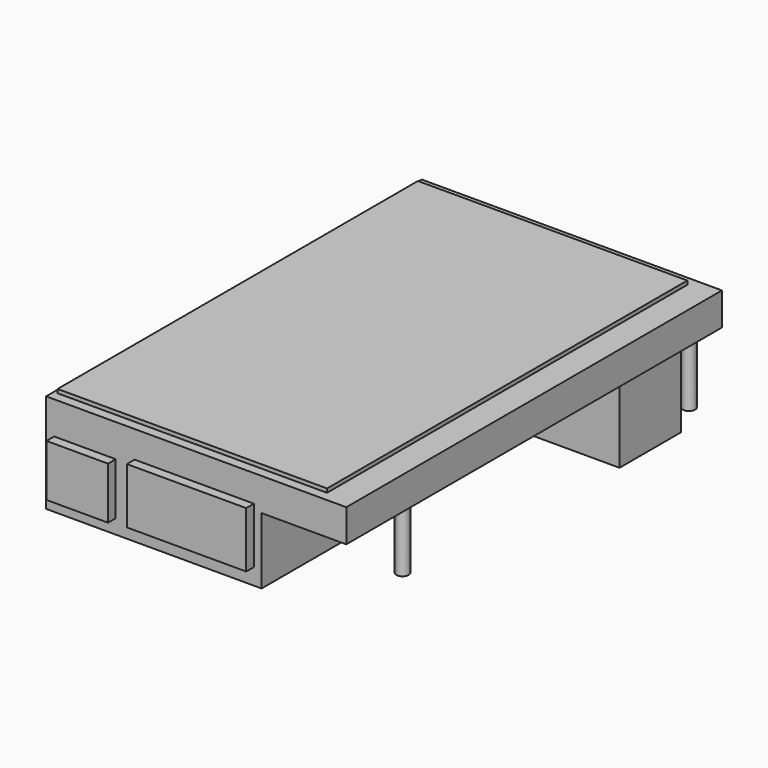
from build123d import *

# Parameters (mm, degrees)
F0_W      = 78
F0_H      = 122
F1_DEPTH  = 8.5
F2_W      = 70
F2_H      = 117
F3_DEPTH  = 1
F4_W      = 56
F4_H      = 85
F5_DEPTH  = 17.25
F6_W      = 18
F6_H      = 15
F7_DEPTH  = 8.75
F8_W      = 16
F8_H      = 13.5
F8_W_2    = 31
F8_H_2    = 14.5
F9_DEPTH  = 2.5
F10_R     = 0.8
F11_DEPTH = 5
F12_R     = 1.6
F13_DEPTH = 18
F14_W     = 76
F14_H     = 20
F15_DEPTH = 19.4


with BuildPart() as f1:
    # F0 (on Top) → F1 (new body)
    with BuildSketch(Plane.XY):
        Rectangle(F0_W, F0_H)
    extrude(amount=F1_DEPTH)

    # F2 (on face) → F3 (join)
    with BuildSketch(Plane.XY.offset(8.5)):
        with Locations((-3, 0)):
            Rectangle(F2_W, F2_H)
    extrude(amount=F3_DEPTH)

    # F4 (on face) → F5 (join)
    with BuildSketch(Plane(origin=(0, 0, 0), x_dir=(1, 0, 0), z_dir=(0, 0, -1))):
        with Locations((-11, 18.5)):
            Rectangle(F4_W, F4_H)
    extrude(amount=F5_DEPTH)

    # F6 (on face) → F7 (join)
    with BuildSketch(Plane(origin=(-39, 0, 0), x_dir=(0, -1, 0), z_dir=(-1, 0, 0))):
        with Locations((8, -9.75)):
            Rectangle(F6_W, F6_H)
    extrude(amount=F7_DEPTH)

    # F8 (on face) → F9 (join)
    with BuildSketch(Plane.XZ.offset(61)):
        with Locations((-28.9, -6.75)):
            Rectangle(F8_W, F8_H)
        with Locations((-0.5, -5.75)):
            Rectangle(F8_W_2, F8_H_2)
    extrude(amount=F9_DEPTH)

    # F10 (on face) → F11 (cut)
    with BuildSketch(Plane(origin=(0, 0, -17.25), x_dir=(1, 0, 0), z_dir=(0, 0, -1))):
        with Locations((13.5, 37.5)):
            Circle(F10_R)
        with Locations((-35.5, 37.5)):
            Circle(F10_R)
        with Locations((-35.5, -20.35)):
            Circle(F10_R)
        with Locations((13.5, -20.35)):
            Circle(F10_R)
    extrude(amount=-F11_DEPTH, mode=Mode.SUBTRACT)

    # F12 (on face) → F13 (join)
    with BuildSketch(Plane(origin=(0, 0, 0), x_dir=(1, 0, 0), z_dir=(0, 0, -1))):
        with Locations((-35.1, -56.4)):
            Circle(F12_R)
        with Locations((34.1, -56.4)):
            Circle(F12_R)
        with Locations((34.1, 36.6)):
            Circle(F12_R)
    extrude(amount=F13_DEPTH)

    # F14 (on face) → F15 (join)
    with BuildSketch(Plane(origin=(0, 0, 0), x_dir=(1, 0, 0), z_dir=(0, 0, -1))):
        with Locations((0, -39)):
            Rectangle(F14_W, F14_H)
    extrude(amount=F15_DEPTH)


solid = f1.part
